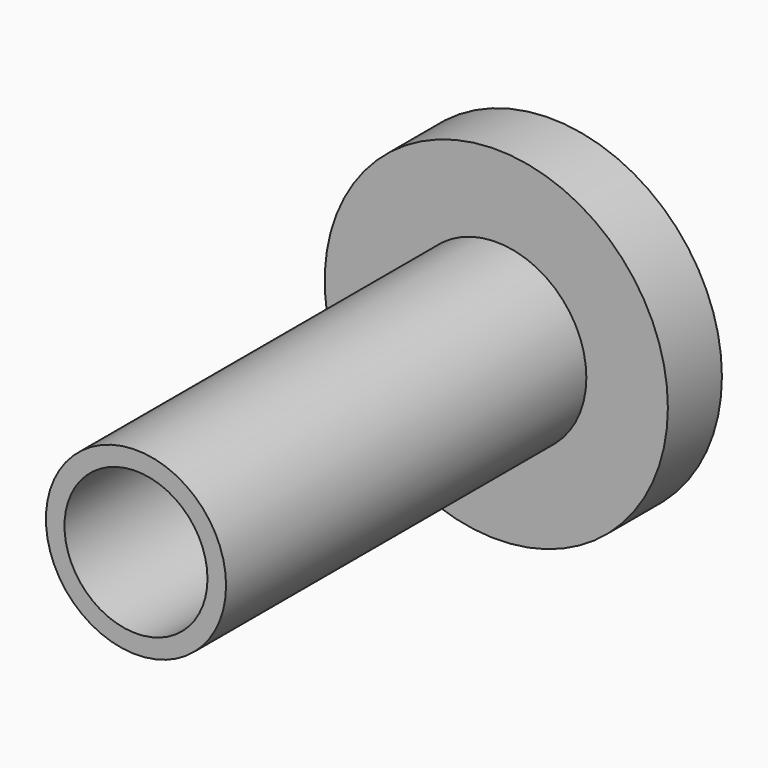
from build123d import *

# Parameters (mm, degrees)
F0_R     = 3.81
F0_R_2   = 1.5875
F1_DEPTH = 0.75
F2_R     = 2
F2_R_2   = 1.5875
F3_DEPTH = 10


with BuildPart() as f1:
    # F0 (on Front) → F1 (new body, symmetric)
    with BuildSketch(Plane.XZ):
        Circle(F0_R)
        Circle(F0_R_2, mode=Mode.SUBTRACT)
    extrude(amount=F1_DEPTH, both=True)

    # F2 (on face) → F3 (join)
    with BuildSketch(Plane.XZ.offset(0.75)):
        Circle(F2_R)
        Circle(F2_R_2, mode=Mode.SUBTRACT)
    extrude(amount=F3_DEPTH)


solid = f1.part
